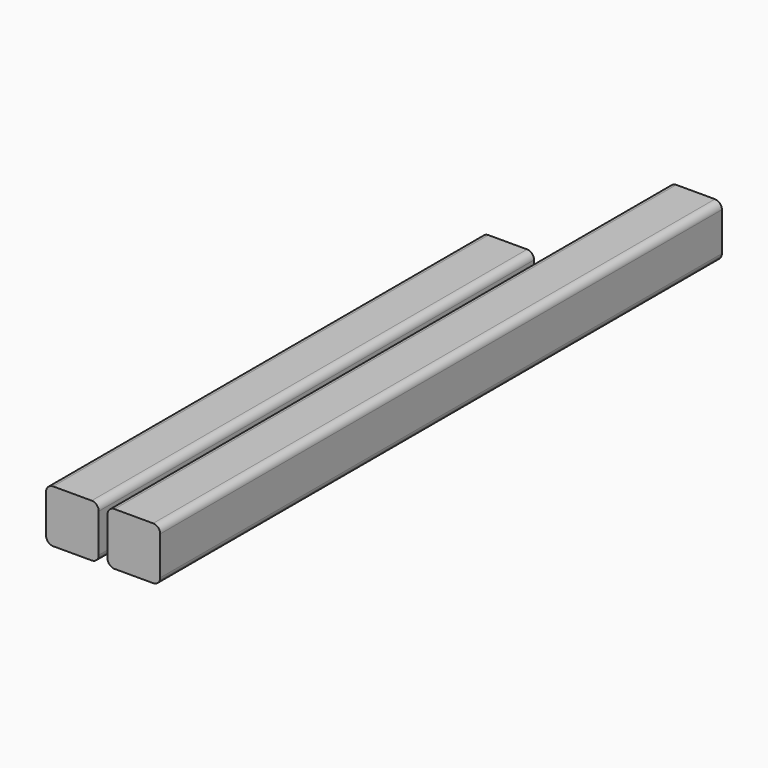
from build123d import *

# Parameters (mm, degrees)
F0_W     = 30
F0_H     = 30
F1_DEPTH = 310
F2_R     = 4
F3_W     = 30
F3_H     = 30
F4_DEPTH = 400
F5_R     = 4


with BuildPart() as f1:
    # F0 (on Front) → F1 (new body)
    with BuildSketch(Plane.XZ):
        with Locations((15, 15)):
            Rectangle(F0_W, F0_H)
    extrude(amount=-F1_DEPTH)

    # F2
    f2_edges = [f1.edges().sort_by_distance(p)[0] for p in [
        (30, 155, 30),
        (30, 155, 0),
        (0, 155, 30),
        (0, 155, 0),
    ]]
    fillet(f2_edges, radius=F2_R)


with BuildPart() as f4:
    # F3 (on Front) → F4 (new body)
    with BuildSketch(Plane.XZ):
        with Locations((50, 15)):
            Rectangle(F3_W, F3_H)
    extrude(amount=-F4_DEPTH)

    # F5
    f5_edges = [f4.edges().sort_by_distance(p)[0] for p in [
        (35, 200, 30),
        (65, 200, 30),
        (65, 200, 0),
        (35, 200, 0),
    ]]
    fillet(f5_edges, radius=F5_R)


solid = Compound([f1.part, f4.part])
